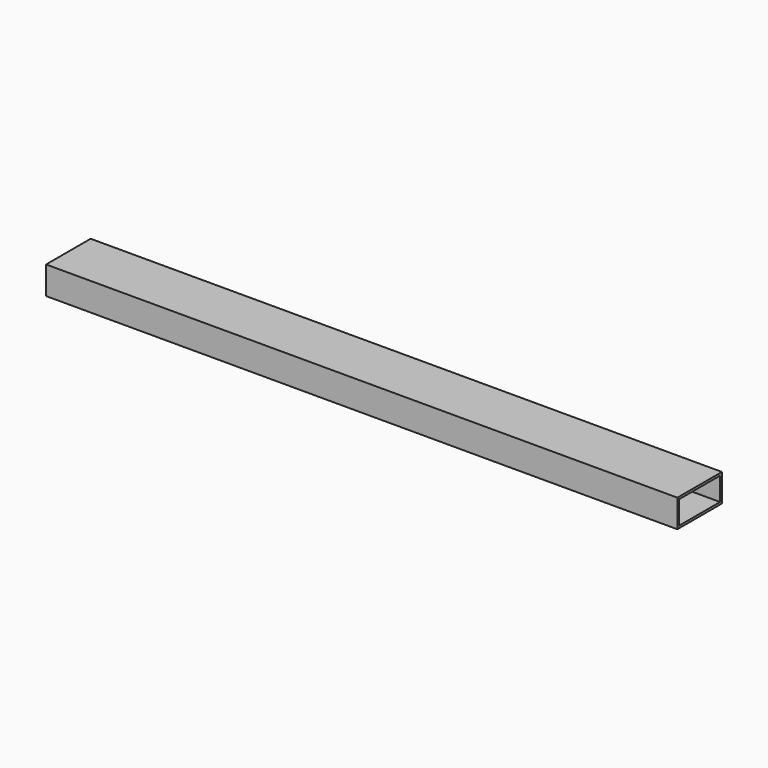
from build123d import *

# Parameters (mm, degrees)
F0_W     = 38.1
F0_H     = 19.05
F0_W_2   = 34.925
F0_H_2   = 15.875
F1_DEPTH = 431.8


with BuildPart() as f1:
    # F0 (on Right) → F1 (new body)
    with BuildSketch(Plane.YZ):
        with Locations((-1e-06, -8.349517)):
            Rectangle(F0_W, F0_H)
        with Locations((-1e-06, -8.349517)):
            Rectangle(F0_W_2, F0_H_2, mode=Mode.SUBTRACT)
    extrude(amount=F1_DEPTH)


solid = f1.part
